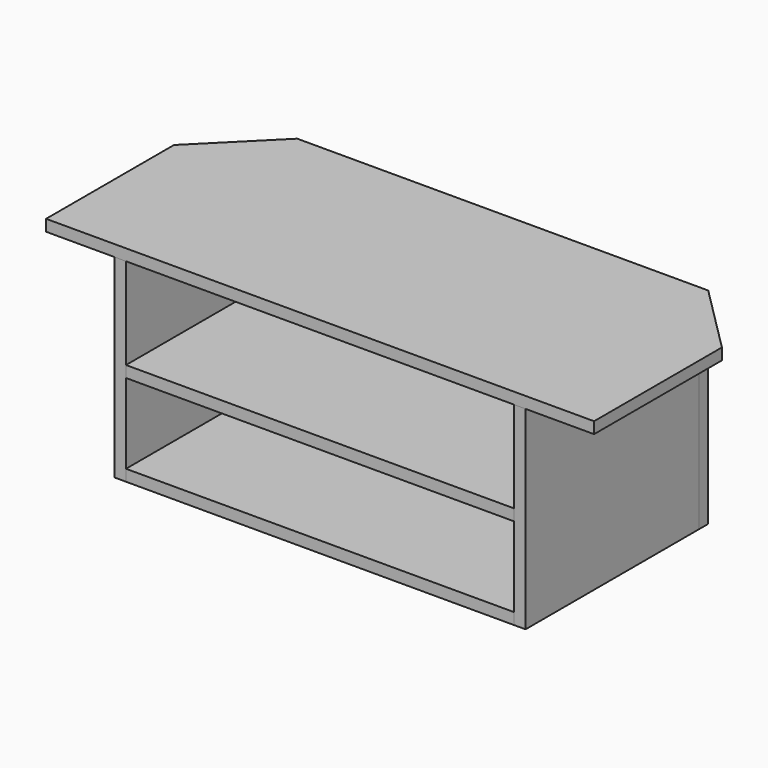
from build123d import *

# Parameters (mm, degrees)
F1_DEPTH = 25.4
F3_START = -25.4
F3_DEPTH = 482.6
F4_START = -25.4
F2_W     = 863.6
F2_H     = 25.4
F4_DEPTH = 482.6
F5_W     = 914.4
F5_H     = 431.8
F6_DEPTH = 25.4


with BuildPart() as f1:
    # F0 (on Top) → F1 (new body)
    with BuildSketch(Plane.XY):
        Polygon((609.6, 101.6), (457.2, 254), (-457.2, 254), (-609.6, 101.6), (-609.6, -254), (609.6, -254), align=None)
    extrude(amount=F1_DEPTH)


with BuildPart() as f3:
    # F2 (on face) → F3 (new body)
    with BuildSketch(Plane(origin=(0, 254, 0), x_dir=(-1, 0, 0), z_dir=(0, 1, 0)).offset(F3_START)):
        Polygon((-431.8, 0), (-457.2, 0), (-457.2, -431.8), (-431.8, -431.8), (-431.8, -406.4), (-431.8, -228.6), (-431.8, -203.2), align=None)
    extrude(amount=-F3_DEPTH)


with BuildPart() as f3b:
    # F2 (on face) → F3, piece 2 (new body)
    with BuildSketch(Plane(origin=(0, 254, 0), x_dir=(-1, 0, 0), z_dir=(0, 1, 0)).offset(F3_START)):
        Polygon((457.2, 0), (431.8, 0), (431.8, -203.2), (431.8, -228.6), (431.8, -406.4), (431.8, -431.8), (457.2, -431.8), align=None)
    extrude(amount=-F3_DEPTH)


with BuildPart() as f4:
    # F2 (on face) → F4 (new body)
    with BuildSketch(Plane(origin=(0, 254, 0), x_dir=(-1, 0, 0), z_dir=(0, 1, 0)).offset(F4_START)):
        with Locations((0, -215.9)):
            Rectangle(F2_W, F2_H)
    extrude(amount=-F4_DEPTH)


with BuildPart() as f4b:
    # F2 (on face) → F4, piece 2 (new body)
    with BuildSketch(Plane(origin=(0, 254, 0), x_dir=(-1, 0, 0), z_dir=(0, 1, 0)).offset(F4_START)):
        with Locations((0, -419.1)):
            Rectangle(F2_W, F2_H)
    extrude(amount=-F4_DEPTH)


with BuildPart() as f6:
    # F5 (on face) → F6 (new body)
    with BuildSketch(Plane(origin=(0, 254, 0), x_dir=(-1, 0, 0), z_dir=(0, 1, 0))):
        with Locations((0, -215.9)):
            Rectangle(F5_W, F5_H)
    extrude(amount=-F6_DEPTH)


solid = Compound([f1.part, f3.part, f3b.part, f4.part, f4b.part, f6.part])
